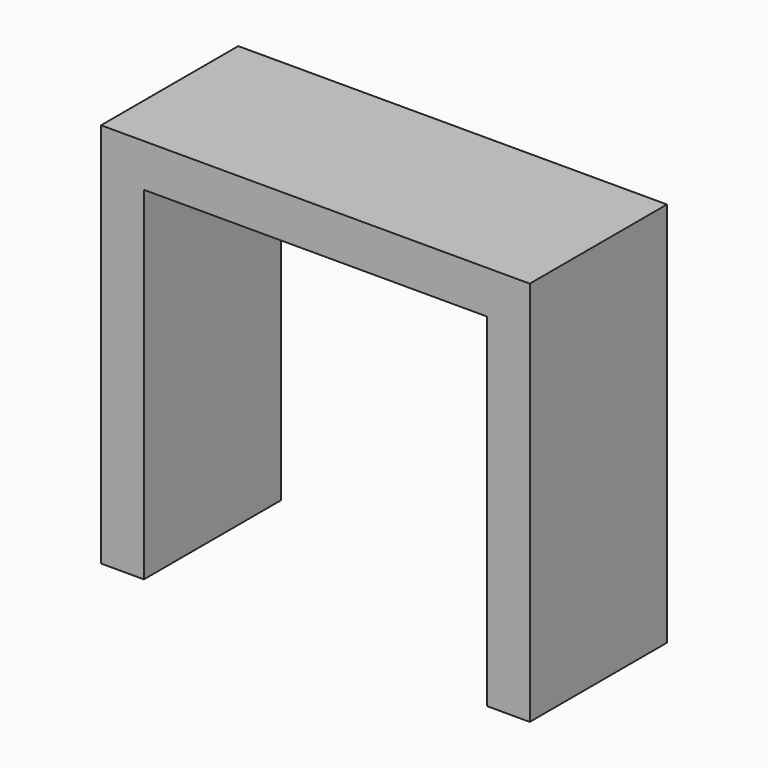
from build123d import *

# Parameters (mm, degrees)
F0_W     = 50
F0_H     = 45
F1_DEPTH = 20
F2_W     = 40
F2_H     = 80
F3_DEPTH = 20


with BuildPart() as f1:
    # F0 (on Front) → F1 (new body)
    with BuildSketch(Plane.XZ):
        with Locations((0, 22.5)):
            Rectangle(F0_W, F0_H)
    extrude(amount=F1_DEPTH)

    # F2 (on Front) → F3 (cut)
    with BuildSketch(Plane.XZ):
        Rectangle(F2_W, F2_H)
    extrude(amount=F3_DEPTH, mode=Mode.SUBTRACT)


solid = f1.part
